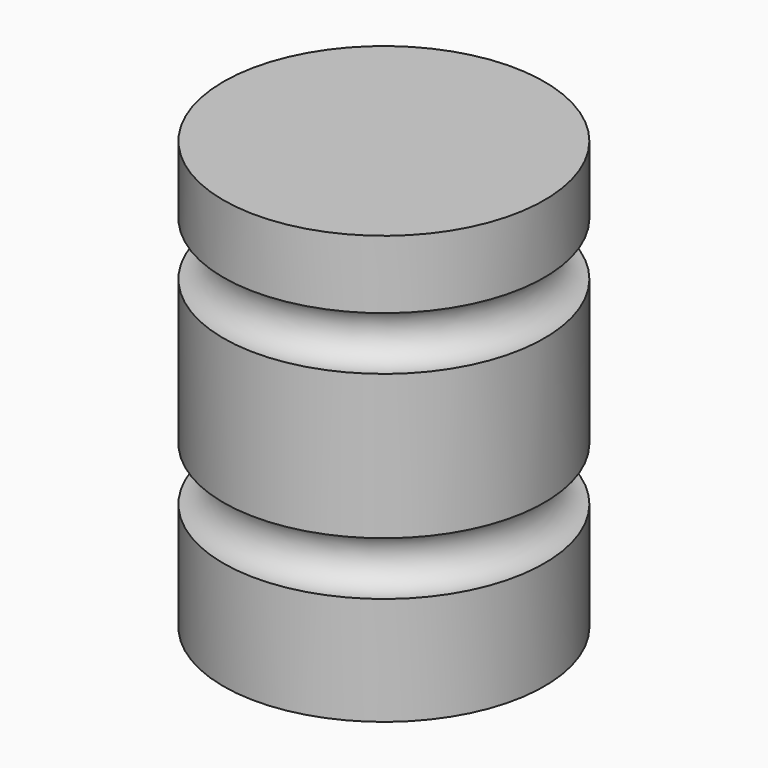
from build123d import *


with BuildPart() as f1:
    # F0 (on Front) → F1 (revolve)
    with BuildSketch(Plane.XZ):
        with BuildLine():
            Line((-38.1, 0), (0, 0))
            Line((0, 0), (0, 101.6))
            Line((0, 101.6), (-38.1, 101.6))
            Line((-38.1, 101.6), (-38.1, 85.438569))
            ThreePointArc((-38.1, 85.438569), (-31.75, 79.088569), (-38.1, 72.738569))
            Line((-38.1, 72.738569), (-38.1, 38.392854))
            ThreePointArc((-38.1, 38.392854), (-31.75, 32.042854), (-38.1, 25.692854))
            Line((-38.1, 25.692854), (-38.1, 0))
        make_face()
    revolve(axis=Axis((0, 0, 50.8), (0, 0, 1)))


solid = f1.part
